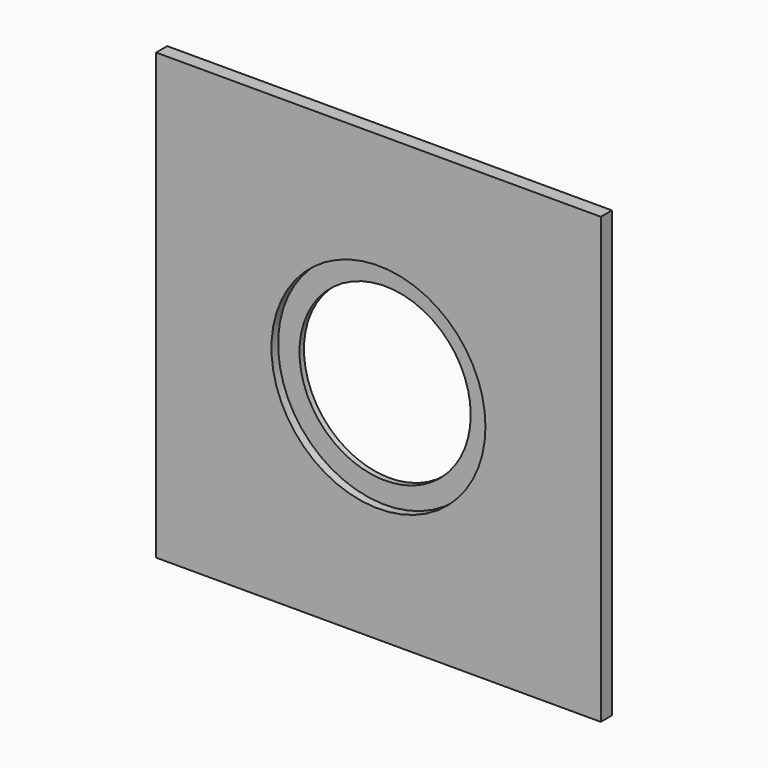
from build123d import *

# Parameters (mm, degrees)
F0_W     = 101.6
F0_H     = 101.6
F1_DEPTH = 3.175
F2_R     = 19.558
F3_DEPTH = 3.176
F4_R     = 24.4475
F5_DEPTH = 1.905


with BuildPart() as f1:
    # F0 (on Front) → F1 (new body)
    with BuildSketch(Plane.XZ):
        Rectangle(F0_W, F0_H)
    extrude(amount=F1_DEPTH)

    # F2 (on face) → F3 (cut, through all)
    with BuildSketch(Plane.XZ.offset(3.175)):
        Circle(F2_R)
    extrude(amount=-F3_DEPTH, mode=Mode.SUBTRACT)

    # F4 (on face) → F5 (cut)
    with BuildSketch(Plane.XZ.offset(3.175)):
        Circle(F4_R)
    extrude(amount=-F5_DEPTH, mode=Mode.SUBTRACT)


solid = f1.part
